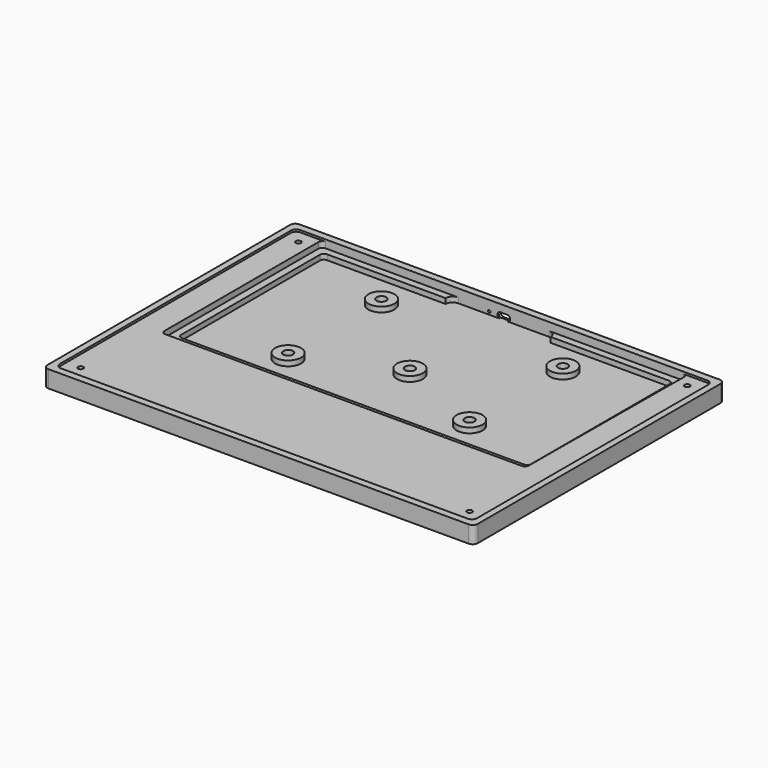
from build123d import *

# Parameters (mm, degrees)
PAD_DEPTH       = 13.1
POCKET_DEPTH    = 10.1
POCKET006_DEPTH = 6.1
SKETCH012_R     = 10
PAD003_DEPTH    = 7
SKETCH015_R     = 1
POCKET003_DEPTH = 6
POCKET004_DEPTH = 4.1
SKETCH013_R     = 3.75
POCKET001_DEPTH = 4
POCKET002_DEPTH = 1.6
SKETCH017_R     = 2
POCKET005_DEPTH = 5.5


with BuildPart() as part:
    # Sketch → Pad (new body)
    with BuildSketch(Plane.XY):
        with BuildLine():
            Line((-162, 6), (162, 6))
            ThreePointArc((166, 2), (164.828427, 4.828427), (162, 6))
            Line((166, 2), (166, -232))
            ThreePointArc((162, -236), (164.828427, -234.828427), (166, -232))
            Line((162, -236), (-162, -236))
            ThreePointArc((-166, -232), (-164.828427, -234.828427), (-162, -236))
            Line((-166, -232), (-166, 2))
            ThreePointArc((-162, 6), (-164.828427, 4.828427), (-166, 2))
        make_face()
    extrude(amount=PAD_DEPTH)

    # Sketch001 → Pocket (cut)
    with BuildSketch(Plane.XY.offset(13.1)):
        with BuildLine():
            Line((135, -8), (135, -142))
            ThreePointArc((132, -145), (134.12132, -144.12132), (135, -142))
            Line((132, -145), (-132, -145))
            ThreePointArc((-135, -142), (-134.12132, -144.12132), (-132, -145))
            Line((-135, -142), (-135, -8))
            ThreePointArc((-131.999986, -5), (-134.121315, -5.878675), (-135, -8))
            Line((-131.999986, -5), (-40.5, -5))
            ThreePointArc((-35, 0.5), (-38.889087, -1.110913), (-40.5, -5))
            Line((35, 0.5), (-35, 0.5))
            ThreePointArc((40.5, -5), (38.889087, -1.110913), (35, 0.5))
            Line((40.5, -5), (132, -5))
            ThreePointArc((135, -8), (134.12132, -5.87868), (132, -5))
        make_face()
    extrude(amount=-POCKET_DEPTH, mode=Mode.SUBTRACT)

    # Sketch018 → Pocket006 (cut)
    with BuildSketch(Plane.XY.offset(13.1)):
        with BuildLine():
            Line((-137.593576, 0.5), (138.406481, 0.5))
            ThreePointArc((141.406424, -2.518402), (140.534297, -0.385196), (138.406481, 0.5))
            Line((141.406424, -2.518402), (140.49521, -151.068141))
            ThreePointArc((137.495267, -154.049739), (139.610071, -153.177555), (140.49521, -151.068141))
            Line((137.495267, -154.049739), (-137.593576, -154.049739))
            ThreePointArc((-140.593576, -151.049739), (-139.714896, -153.171059), (-137.593576, -154.049739))
            Line((-140.593576, -151.049739), (-140.593576, -2.5))
            ThreePointArc((-137.593576, 0.5), (-139.714896, -0.37868), (-140.593576, -2.5))
        make_face()
    extrude(amount=-POCKET006_DEPTH, mode=Mode.SUBTRACT)

    # Sketch012 → Pad003 (join)
    with BuildSketch(Plane.XY):
        with Locations((-70, -120)):
            Circle(SKETCH012_R)
        with Locations((70, -120)):
            Circle(SKETCH012_R)
        with Locations((70, -30)):
            Circle(SKETCH012_R)
        with Locations((0, -90)):
            Circle(SKETCH012_R)
        with Locations((-70, -30)):
            Circle(SKETCH012_R)
    extrude(amount=PAD003_DEPTH)

    # Sketch015 → Pocket003 (cut)
    with BuildSketch(Plane.XZ.offset(-0.5)):
        with Locations((-11.3, 5.25)):
            Circle(SKETCH015_R)
        with BuildLine():
            ThreePointArc((2.75, 3), (5, 5.25), (2.75, 7.5))
            Line((2.75, 7.5), (-2.75, 7.5))
            ThreePointArc((-2.75, 7.5), (-5, 5.25), (-2.75, 3))
            Line((-2.75, 3), (2.75, 3))
        make_face()
    extrude(amount=-POCKET003_DEPTH, mode=Mode.SUBTRACT)

    # Sketch016 → Pocket004 (cut)
    with BuildSketch(Plane.XZ.offset(-1.9)):
        with BuildLine():
            Line((-4, 9.425651), (4, 9.425651))
            ThreePointArc((7, 6.425651), (6.12132, 8.546971), (4, 9.425651))
            Line((7, 6.425651), (7, 4.425651))
            ThreePointArc((4, 1.425651), (6.12132, 2.304331), (7, 4.425651))
            Line((4, 1.425651), (-4, 1.425651))
            ThreePointArc((-7, 4.425651), (-6.12132, 2.304331), (-4, 1.425651))
            Line((-7, 4.425651), (-7, 6.425651))
            ThreePointArc((-4, 9.425651), (-6.12132, 8.546971), (-7, 6.425651))
        make_face()
    extrude(amount=-POCKET004_DEPTH, mode=Mode.SUBTRACT)

    # Sketch013 → Pocket001 (cut)
    with BuildSketch(Plane.XY.offset(7)):
        with Locations((-70, -30)):
            Circle(SKETCH013_R)
        with Locations((-70, -120)):
            Circle(SKETCH013_R)
        with Locations((70, -120)):
            Circle(SKETCH013_R)
        with Locations((70, -30)):
            Circle(SKETCH013_R)
        with Locations((0, -90)):
            Circle(SKETCH013_R)
    extrude(amount=-POCKET001_DEPTH, mode=Mode.SUBTRACT)

    # Sketch014 → Pocket002 (cut)
    with BuildSketch(Plane.XY.offset(13.1)):
        with BuildLine():
            Line((-157, 0.5), (157, 0.5))
            ThreePointArc((161, -3.5), (159.828427, -0.671573), (157, 0.5))
            Line((161, -3.5), (161, -226.5))
            ThreePointArc((157, -230.5), (159.828427, -229.328427), (161, -226.5))
            Line((157, -230.5), (-157, -230.5))
            ThreePointArc((-161, -226.5), (-159.828427, -229.328427), (-157, -230.5))
            Line((-161, -226.5), (-161, -3.5))
            ThreePointArc((-157, 0.5), (-159.828427, -0.671573), (-161, -3.5))
        make_face()
    extrude(amount=-POCKET002_DEPTH, mode=Mode.SUBTRACT)

    # Sketch017 → Pocket005 (cut)
    with BuildSketch(Plane.XY.offset(11.5)):
        with Locations((-150, -10)):
            Circle(SKETCH017_R)
        with Locations((-150, -220)):
            Circle(SKETCH017_R)
        with Locations((150, -10)):
            Circle(SKETCH017_R)
        with Locations((150, -220)):
            Circle(SKETCH017_R)
    extrude(amount=-POCKET005_DEPTH, mode=Mode.SUBTRACT)


solid = part.part
